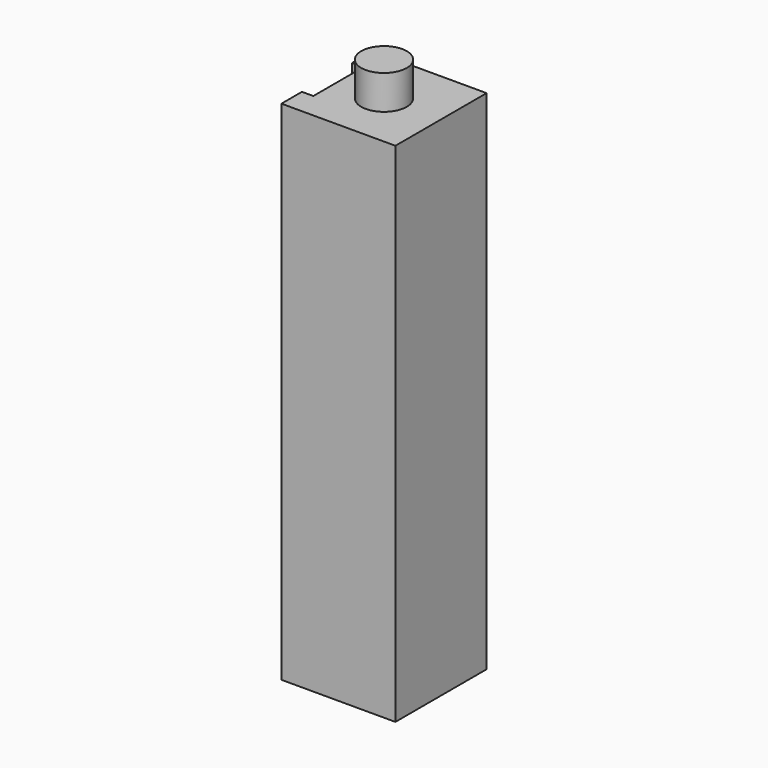
from build123d import *

# Parameters (mm, degrees)
SKETCH_W              = 95
SKETCH_H              = 20
PAD_DEPTH             = 20
SKETCH001_W           = 20
SKETCH001_H           = 20
SKETCH001_R           = 4
POCKET_DEPTH          = 6
SKETCH003_W           = 12
SKETCH003_H           = 11
POCKET001_DEPTH       = 2
CLONE_PLACEMENT_ANGLE = 270


with BuildPart() as part:
    # Sketch → Pad (new body)
    with BuildSketch(Plane.XY):
        Rectangle(SKETCH_W, SKETCH_H)
    extrude(amount=-PAD_DEPTH)

    # Sketch001 (on Face2 of Pad) → Pocket (cut)
    with BuildSketch(Plane.YZ.offset(47.5)):
        with Locations((0, -10)):
            Rectangle(SKETCH001_W, SKETCH001_H)
        with Locations((0, -10)):
            Circle(SKETCH001_R, mode=Mode.SUBTRACT)
    extrude(amount=-POCKET_DEPTH, mode=Mode.SUBTRACT)

    # Sketch003 (on Face2 of Pocket) → Pocket001 (cut)
    with BuildSketch(Plane.XY):
        with Locations((35.5, 0)):
            Rectangle(SKETCH003_W, SKETCH003_H)
        with Locations((-4.5, 0)):
            Rectangle(SKETCH003_W, SKETCH003_H)
    extrude(amount=-POCKET001_DEPTH, mode=Mode.SUBTRACT)


with BuildPart() as part_1:
    # Clone placement: moved
    add(part.part.moved(Location((-10, 0, -47.5))).rotate(Axis((-10, 0, -47.5), (0, 1, 0)), CLONE_PLACEMENT_ANGLE))


solid = part_1.part
